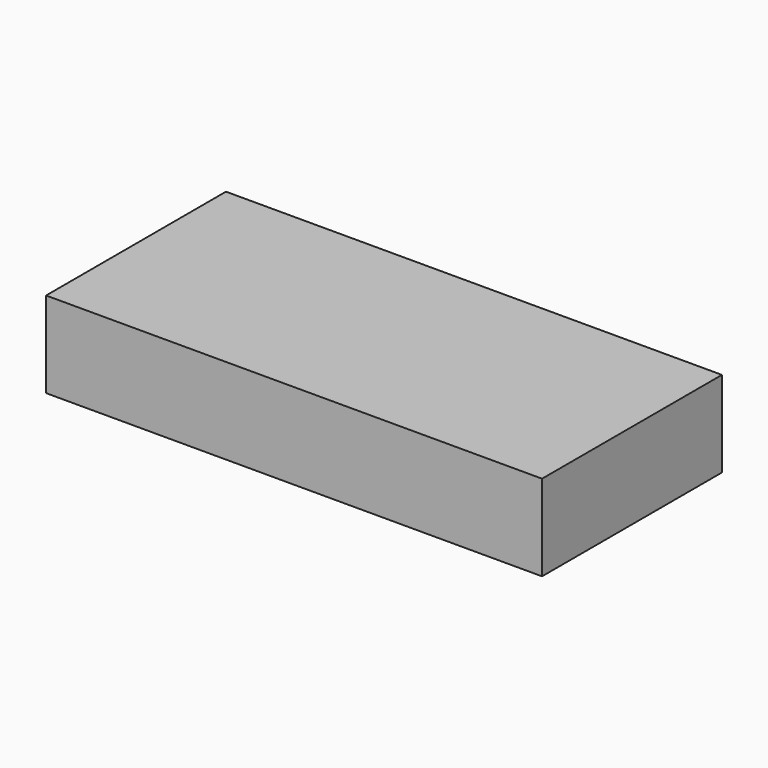
from build123d import *

# Parameters (mm, degrees)
BOX_W     = 75
BOX_H     = 34
BOX_DEPTH = 13


with BuildPart() as part:
    # Box → Box (new body)
    with BuildSketch(Plane.XY):
        with Locations((37.5, 17)):
            Rectangle(BOX_W, BOX_H)
    extrude(amount=BOX_DEPTH)


solid = part.part
